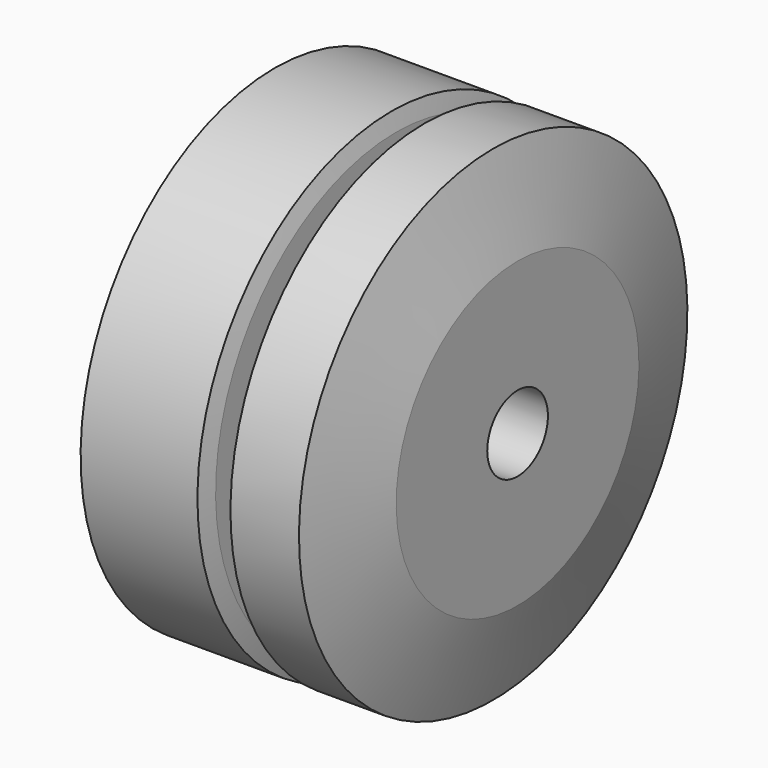
from build123d import *

# Parameters (mm, degrees)
F4_D   = 5
F4_2_D = 5


with BuildPart() as f1:
    # F0 (on Front) → F1 (revolve)
    with BuildSketch(Plane.XZ):
        Polygon((0, 16), (0, 3), (0, 0), (6.5, 0), (6.5, 6), (6.5, 12), (7.7, 12), (8, 13.1196152423), (8, 14.8803847577), (7.7, 16), align=None)
    revolve(axis=Axis((4, 0, 0), (1, 0, 0)))

    # F4 (through all)
    with Locations(Plane.YZ.offset(16)):
        with Locations((0, 0)):
            Hole(F4_D / 2)


with BuildPart() as f2:
    # F0 (on Front) → F2 (revolve)
    with BuildSketch(Plane.XZ):
        Polygon((8, 6), (8, 0), (16, 0), (16, 10), (14.3923048454, 16), (9.875644347, 16), (8, 9), align=None)
    revolve(axis=Axis((12, 0, 0), (1, 0, 0)))

    # F4#2 (through all)
    with Locations(Plane.YZ.offset(16)):
        with Locations((0, 0)):
            Hole(F4_2_D / 2)


solid = Compound([f1.part, f2.part])
